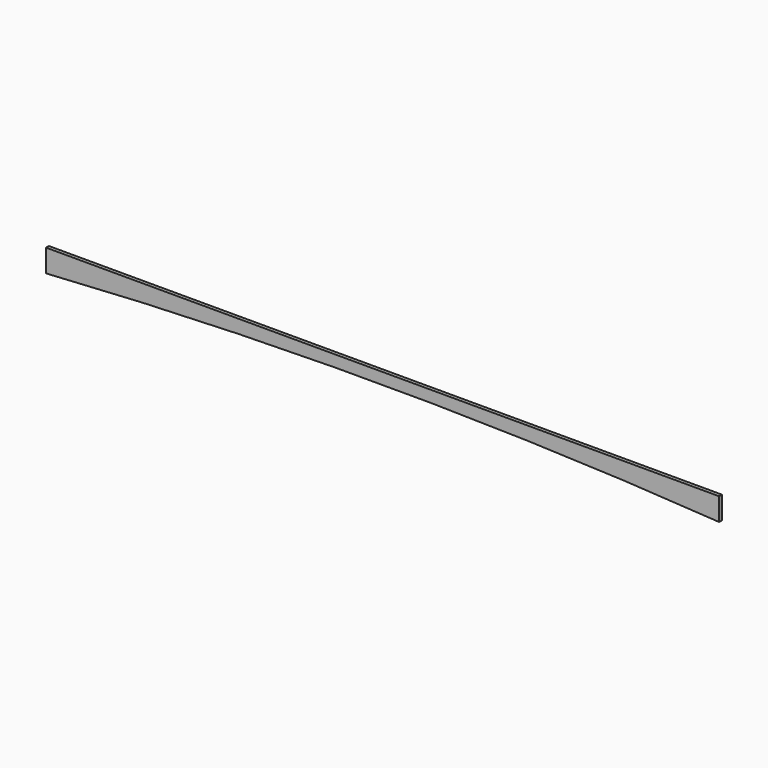
from build123d import *

# Parameters (mm, degrees)
F1_DEPTH = 25.4
F4_DEPTH = 15.875


with BuildPart() as f1:
    # F0 (on Front) → F1 (new body)
    with BuildSketch(Plane.XZ):
        with BuildLine():
            Line((3002.6782843828, 28.9431316674), (-115.1717156172, 28.9431316674))
            Line((-115.1717156172, 28.9431316674), (-115.1717156172, -47.2568683326))
            ThreePointArc((-115.1717156172, -47.2568683323), (1443.7532843828, 3.5431316677), (3002.6782843828, -47.2568683323))
            Line((3002.6782843828, -47.2568683326), (3002.6782843828, 28.9431316674))
        make_face()
    extrude(amount=F1_DEPTH)


with BuildPart() as f4:
    # F3 (on Front) → F4 (new body)
    with BuildSketch(Plane.XZ):
        with BuildLine():
            Line((2947.5047147274, -37.7234602451), (-68.7452852726, -37.7234602451))
            Line((-68.7452852726, -37.7234602451), (-68.7452852726, -139.3234602451))
            ThreePointArc((-68.7452852726, -139.3234602449), (1439.3797147274, -88.5234602449), (2947.5047147274, -139.3234602449))
            Line((2947.5047147274, -139.3234602451), (2947.5047147274, -37.7234602451))
        make_face()
    extrude(amount=F4_DEPTH)


solid = f4.part
